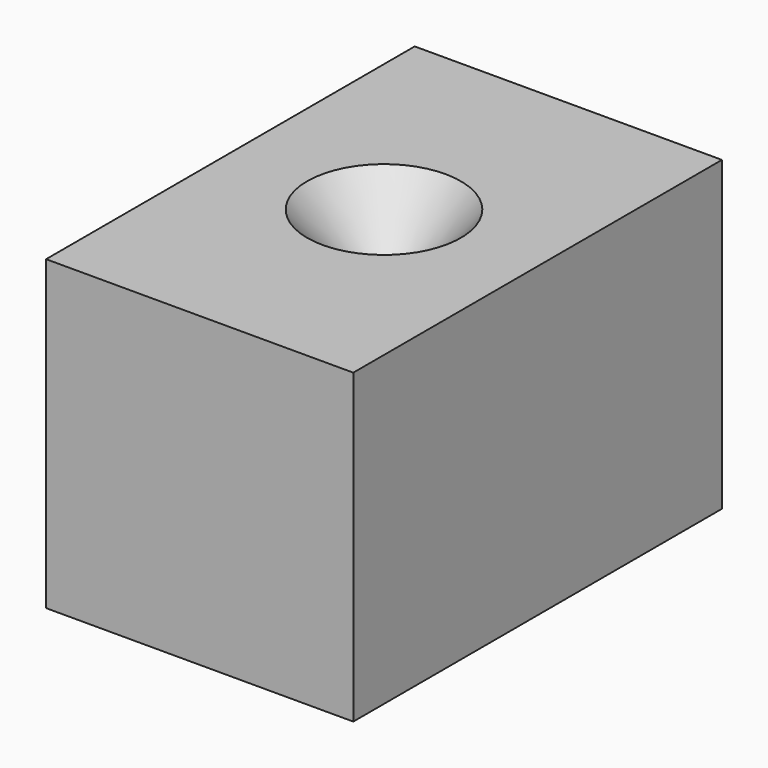
from build123d import *

# Parameters (mm, degrees)
F0_W           = 50.8
F0_H           = 50.8
F1_DEPTH       = 76.2
F3_D           = 6.7564
F3_CSINK_D     = 25.4
F3_CSINK_ANGLE = 82


with BuildPart() as f1:
    # F0 (on Front) → F1 (new body)
    with BuildSketch(Plane.XZ):
        with Locations((25.4, 25.4)):
            Rectangle(F0_W, F0_H)
    extrude(amount=F1_DEPTH)

    # F3 (through all)
    with Locations(Plane.XY.offset(50.8)):
        with Locations((25.4, -38.1)):
            CounterSinkHole(F3_D / 2, F3_CSINK_D / 2, counter_sink_angle=F3_CSINK_ANGLE)


solid = f1.part
